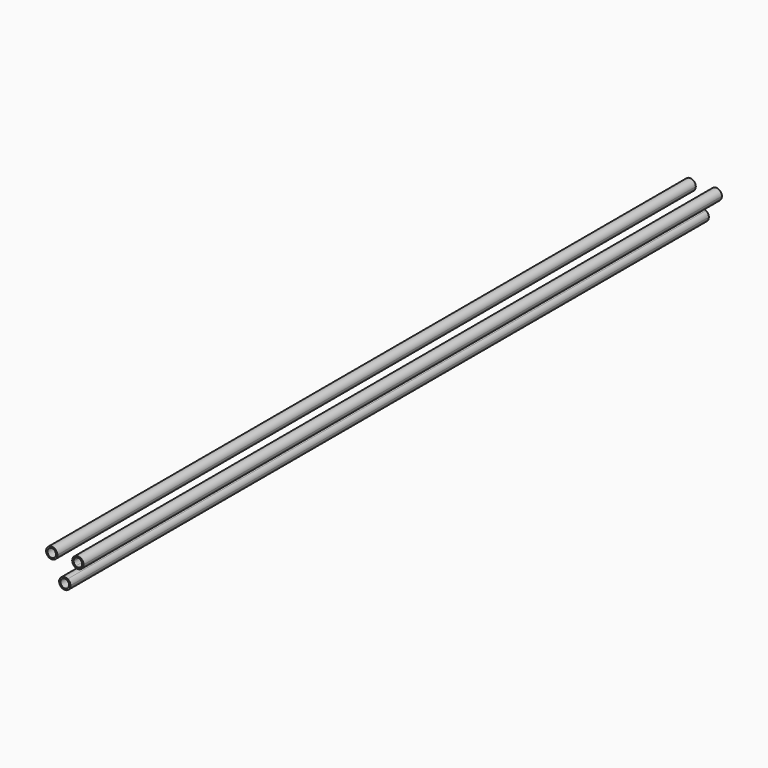
from build123d import *

# Parameters (mm, degrees)
F1_DEPTH = 1410


with BuildPart() as f1:
    # F0 (on Front) → F1 (new body)
    with BuildSketch(Plane.XZ):
        with BuildLine():
            Line((-19.344011, 33.504809), (-18.094011, 31.339746))
            ThreePointArc((-18.094011, 31.339746), (-14.433757, 35), (-13.094011, 40))
            Line((-13.094011, 40), (-15.594011, 40))
            ThreePointArc((-15.594011, 40), (-16.59882, 36.25), (-19.344011, 33.504809))
        make_face()
        with BuildLine():
            ThreePointArc((-13.094011, 40), (-31.754265, 45), (-18.094011, 31.339746))
            Line((-18.094011, 31.339746), (-19.344011, 33.504809))
            ThreePointArc((-19.344011, 33.504809), (-29.589201, 43.75), (-15.594011, 40))
            Line((-15.594011, 40), (-13.094011, 40))
        make_face()
        with BuildLine():
            ThreePointArc((13.094011, 40), (14.433757, 35), (18.094011, 31.339746))
            Line((18.094011, 31.339746), (19.344011, 33.504809))
            ThreePointArc((19.344011, 33.504809), (16.59882, 36.25), (15.594011, 40))
            Line((15.594011, 40), (13.094011, 40))
        make_face()
        with BuildLine():
            Line((19.344011, 33.504809), (18.094011, 31.339746))
            ThreePointArc((18.094011, 31.339746), (28.094011, 31.339746), (33.094011, 40))
            ThreePointArc((33.094011, 40), (23.094011, 50), (13.094011, 40))
            Line((13.094011, 40), (15.594011, 40))
            ThreePointArc((15.594011, 40), (23.094011, 47.5), (30.594011, 40))
            ThreePointArc((30.594011, 40), (26.844011, 33.504809), (19.344011, 33.504809))
        make_face()
        with BuildLine():
            ThreePointArc((-5, 8.660254), (-5, -8.660254), (10, 0))
            ThreePointArc((10, 0), (8.660254, 5), (5, 8.660254))
            Line((5, 8.660254), (3.75, 6.495191))
            ThreePointArc((3.75, 6.495191), (6.495191, 3.75), (7.5, 0))
            ThreePointArc((7.5, 0), (-3.75, -6.495191), (-3.75, 6.495191))
            Line((-3.75, 6.495191), (-5, 8.660254))
        make_face()
        with BuildLine():
            Line((3.75, 6.495191), (5, 8.660254))
            ThreePointArc((5, 8.660254), (0, 10), (-5, 8.660254))
            Line((-5, 8.660254), (-3.75, 6.495191))
            ThreePointArc((-3.75, 6.495191), (0, 7.5), (3.75, 6.495191))
        make_face()
    extrude(amount=F1_DEPTH)


solid = f1.part
